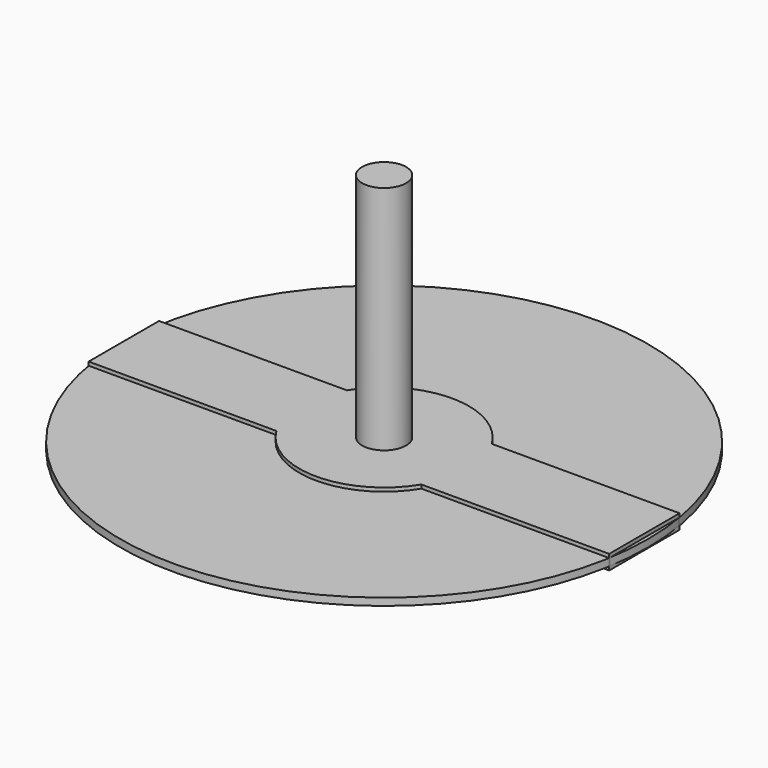
from build123d import *

# Parameters (mm, degrees)
F0_R          = 228.6
F0_R_2        = 19.05
F1_DEPTH      = 6.35
F2_DEPTH      = 203.2
F2_DEPTH_BACK = 25.4
F3_R          = 19.05
F4_DEPTH      = 9.525
F4_DEPTH_BACK = 3.175


with BuildPart() as f1:
    # F0 (on Top) → F1 (new body)
    with BuildSketch(Plane.XY):
        Circle(F0_R)
        Circle(F0_R_2, mode=Mode.SUBTRACT)
    extrude(amount=-F1_DEPTH)


with BuildPart() as f2:
    # F0 (on Top) → F2 (new body, two sides)
    with BuildSketch(Plane.XY) as f2_sk:
        Circle(F0_R_2)
    extrude(amount=F2_DEPTH)
    extrude(f2_sk.sketch, amount=-F2_DEPTH_BACK)


with BuildPart() as f4:
    # F3 (on face) → F4 (new body, two sides)
    with BuildSketch(Plane.XY) as f4_sk:
        with BuildLine():
            Line((-225.4026397361, -38.1), (-62.7689518813, -38.1))
            ThreePointArc((-62.7689518813, -38.1), (0, -73.4271837964), (62.7689518813, -38.1))
            Line((62.7689518813, -38.1), (225.4026397361, -38.1))
            Line((225.4026397361, -38.1), (225.4026397361, 38.1))
            Line((225.4026397361, 38.1), (62.7689518813, 38.1))
            ThreePointArc((62.7689518813, 38.1), (0, 73.4271837964), (-62.7689518813, 38.1))
            Line((-62.7689518813, 38.1), (-225.4026397361, 38.1))
            Line((-225.4026397361, 38.1), (-225.4026397361, -38.1))
        make_face()
        Circle(F3_R, mode=Mode.SUBTRACT)
    extrude(amount=-F4_DEPTH)
    extrude(f4_sk.sketch, amount=F4_DEPTH_BACK)


solid = Compound([f1.part, f2.part, f4.part])
